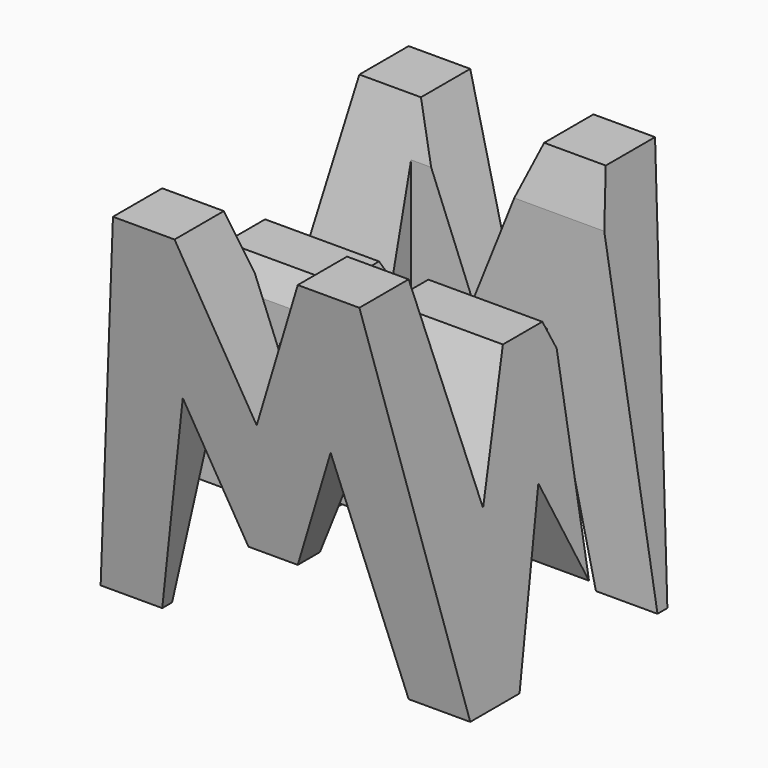
from build123d import *

# Parameters (mm, degrees)
F0_W      = 38.1
F0_H      = 38.1
F1_DEPTH  = 38.1
F6_DEPTH  = 38.1
F8_DEPTH  = 38.1
F9_W      = 25.4
F9_H      = 7.62
F10_DEPTH = 38.1


with BuildPart() as f1:
    # F0 (on Front) → F1 (new body)
    with BuildSketch(Plane.XZ):
        with Locations((19.05, 19.05)):
            Rectangle(F0_W, F0_H)
    extrude(amount=F1_DEPTH)

    # F5 (on offset) → F6 (cut)
    with BuildSketch(Plane.YZ.offset(38.1)):
        Polygon((-31.75, 0), (-38.1, 38.1), (-38.1, 0), align=None)
        Polygon((-19.6671973258, 15.875), (-25.4, 0), (-12.7, 0), align=None)
        Polygon((-6.35, 38.1), (-31.75, 38.1), (-26.67, 16.4506547153), (-21.59, 28.575), (-16.51, 28.575), (-11.43, 17.4476634711), align=None)
        Polygon((0, 0), (0, 38.1), (-6.35, 0), align=None)
    extrude(amount=-F6_DEPTH, mode=Mode.SUBTRACT)

    # F7 (on offset) → F8 (cut)
    with BuildSketch(Plane.XZ.offset(38.1)):
        Polygon((0, 38.1), (0, 0), (6.35, 38.1), align=None)
        Polygon((25.4, 38.1), (12.7, 38.1), (19.05, 22.225), align=None)
        Polygon((11.43, 22.225), (6.35, 0), (31.75, 0), (26.67, 22.225), (21.59, 9.525), (16.51, 9.525), align=None)
        Polygon((31.75, 38.1), (38.1, 0), (38.1, 38.1), align=None)
    extrude(amount=-F8_DEPTH, mode=Mode.SUBTRACT)

    # F9 (on offset) → F10 (cut)
    with BuildSketch(Plane.XY.offset(38.1)):
        with Locations((25.4, -11.43)):
            Rectangle(F9_W, F9_H)
        with Locations((12.7, -26.67)):
            Rectangle(F9_W, F9_H)
    extrude(amount=-F10_DEPTH, mode=Mode.SUBTRACT)


solid = f1.part
